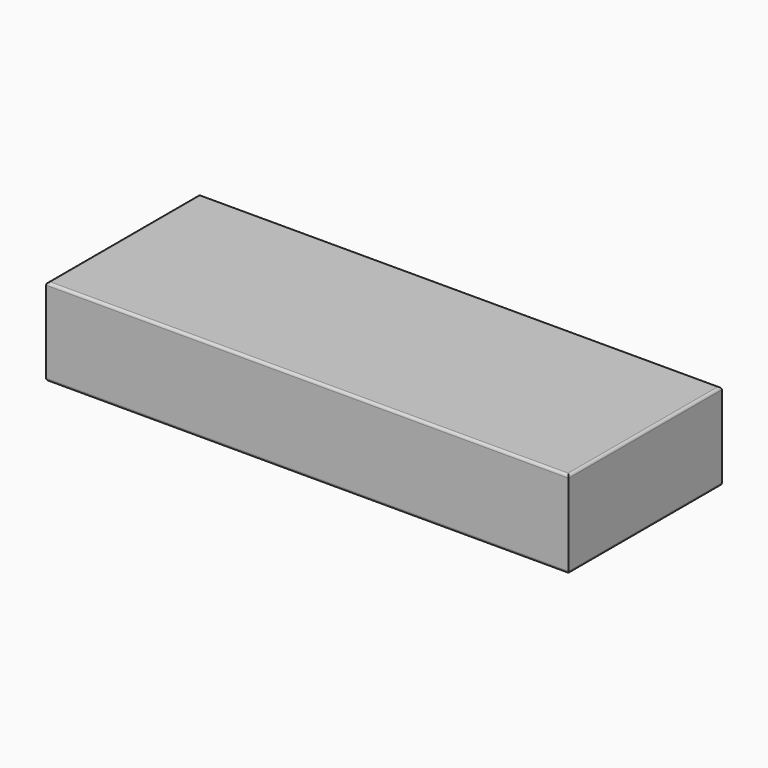
from build123d import *

# Parameters (mm, degrees)
SKETCH_W    = 3000
SKETCH_H    = 1100
PAD_DEPTH   = 500
FILLET_R    = 15
FILLET001_R = 15


with BuildPart() as part:
    # Sketch → Pad (new body)
    with BuildSketch(Plane.XY):
        Rectangle(SKETCH_W, SKETCH_H)
    extrude(amount=PAD_DEPTH)

    # Fillet
    fillet_edges = [part.edges().sort_by_distance(p)[0] for p in [
        (0, 550, 500),
        (1500, 0, 500),
        (0, -550, 500),
        (-1500, 0, 500),
    ]]
    fillet(fillet_edges, radius=FILLET_R)

    # Fillet001
    fillet001_edges = [part.edges().sort_by_distance(p)[0] for p in [
        (0, 550, 0),
        (1500, 0, 0),
        (0, -550, 0),
        (-1500, 0, 0),
    ]]
    fillet(fillet001_edges, radius=FILLET001_R)


solid = part.part
